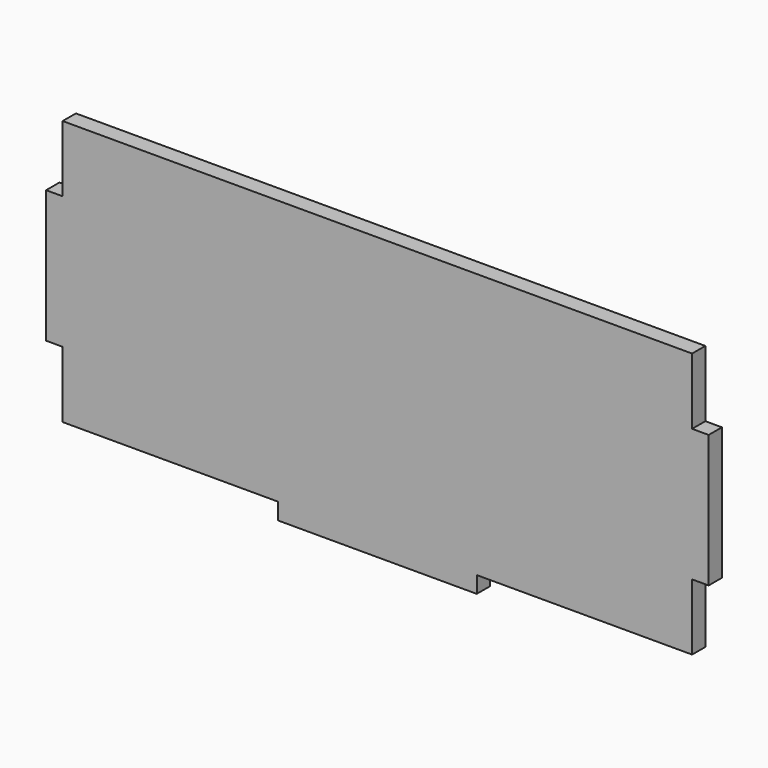
from build123d import *

# Parameters (mm, degrees)
F0_W     = 241.3
F0_H     = 101.6
F1_DEPTH = 6.35
F2_W     = 76.2
F2_H     = 6.35
F3_DEPTH = 6.35
F4_W     = 6.35
F4_H     = 50.8
F5_DEPTH = 6.35


with BuildPart() as f1:
    # F0 (on Front) → F1 (new body)
    with BuildSketch(Plane.XZ):
        with Locations((0, 50.8)):
            Rectangle(F0_W, F0_H)
    extrude(amount=F1_DEPTH)

    # F2 (on face) → F3 (join)
    with BuildSketch(Plane.XZ.offset(6.35)):
        with Locations((0, -3.175)):
            Rectangle(F2_W, F2_H)
    extrude(amount=-F3_DEPTH)

    # F4 (on face) → F5 (join)
    with BuildSketch(Plane.XZ.offset(6.35)):
        with Locations((-123.825, 50.8)):
            Rectangle(F4_W, F4_H)
        with Locations((123.825, 50.8)):
            Rectangle(F4_W, F4_H)
    extrude(amount=-F5_DEPTH)


solid = f1.part
